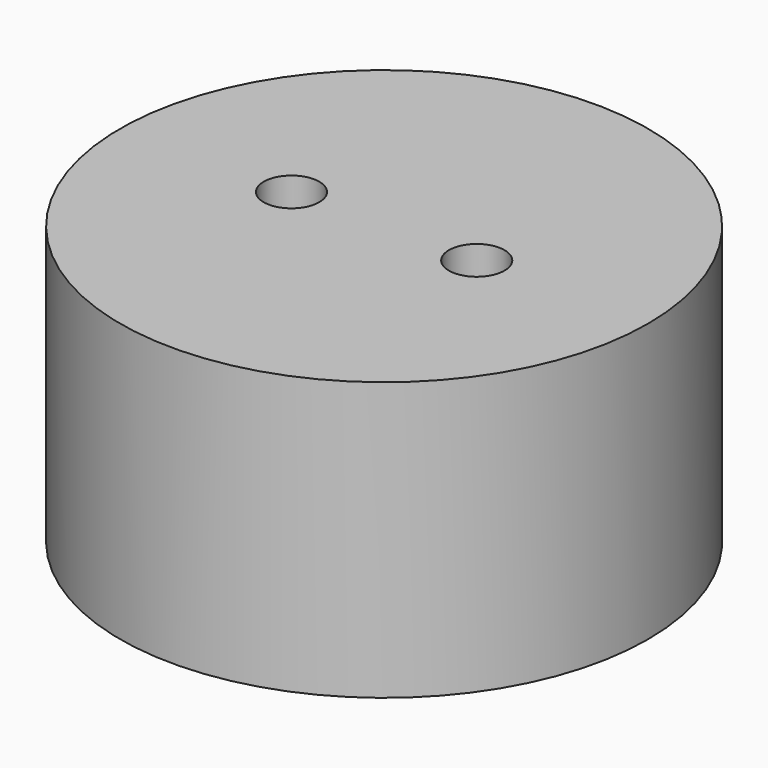
from build123d import *

# Parameters (mm, degrees)
F0_R     = 14.25
F0_R_2   = 1.5
F1_DEPTH = 15


with BuildPart() as f1:
    # F0 (on Top) → F1 (new body)
    with BuildSketch(Plane.XY):
        Circle(F0_R)
        with Locations((-5, 0)):
            Circle(F0_R_2, mode=Mode.SUBTRACT)
        with BuildLine():
            ThreePointArc((6.5, 0), (5, -1.5), (3.5, 0))
            ThreePointArc((3.5, 0), (5, 1.5), (6.5, 0))
        make_face(mode=Mode.SUBTRACT)
    extrude(amount=F1_DEPTH)


solid = f1.part
